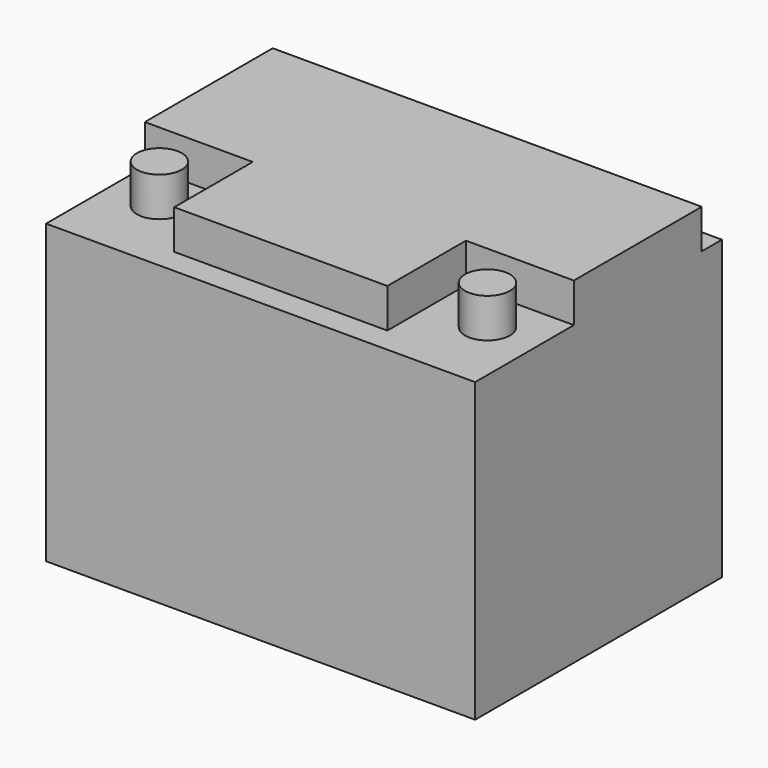
from build123d import *

# Parameters (mm, degrees)
F0_W     = 242.8875
F0_H     = 174.625
F1_DEPTH = 168.275
F2_R     = 12.7
F3_DEPTH = 22.225


with BuildPart() as f1:
    # F0 (on Top) → F1 (new body)
    with BuildSketch(Plane.XY):
        with Locations((121.44375, 87.3125)):
            Rectangle(F0_W, F0_H)
    extrude(amount=F1_DEPTH)

    # F2 (on face) → F3 (join)
    with BuildSketch(Plane.XY.offset(168.275)):
        with Locations((28.575, 44.45)):
            Circle(F2_R)
        with Locations((214.3125, 44.45)):
            Circle(F2_R)
        Polygon((242.8875, 160.3375), (0, 160.3375), (0, 69.85), (61.11875, 69.85), (61.11875, 14.2875), (181.76875, 14.2875), (181.76875, 69.85), (242.8875, 69.85), align=None)
    extrude(amount=F3_DEPTH)


solid = f1.part
